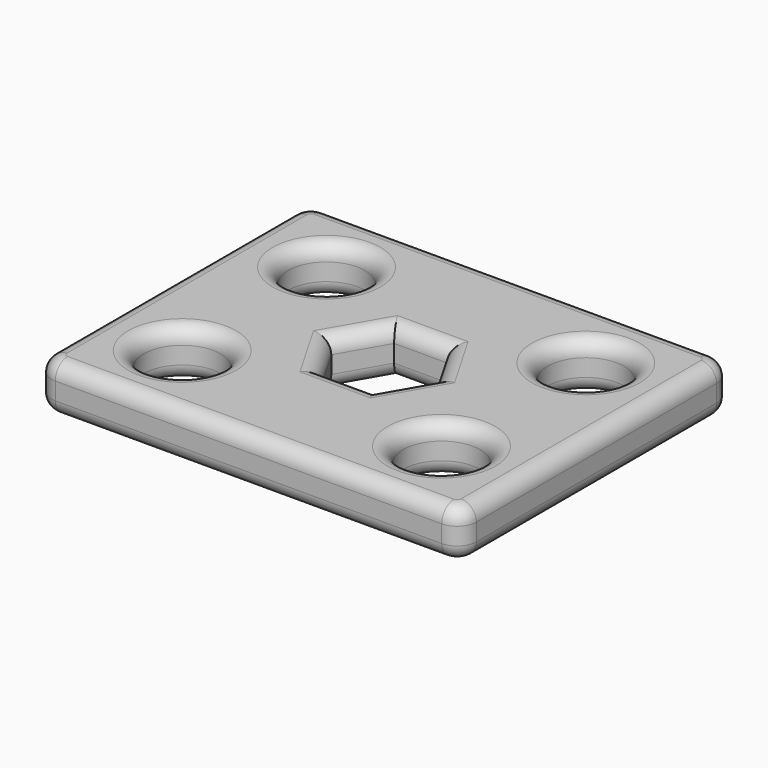
from build123d import *

# Parameters (mm, degrees)
F0_R      = 12.7
F1_DEPTH  = 25.4
F2_DEPTH  = 15.8088058233
F5_R      = 5.08
F6_R      = 13.5184511769
F7_DEPTH  = 25
F9_DEPTH  = 10.4697644711
F11_DEPTH = 23.906044662
F13_R     = 5


with BuildPart() as f1:
    # F0 (on Top) → F1 (new body)
    with BuildSketch(Plane.XY):
        with Locations((-42.7938163823, 29.7800421347)):
            Circle(F0_R)
    extrude(amount=F1_DEPTH)


with BuildPart() as f1b:
    # F0 (on Top) → F1, piece 2 (new body)
    with BuildSketch(Plane.XY):
        with Locations((-42.7938163823, -29.7800421347)):
            Circle(F0_R)
    extrude(amount=F1_DEPTH)


with BuildPart() as f1c:
    # F0 (on Top) → F1, piece 3 (new body)
    with BuildSketch(Plane.XY):
        Polygon((8.7012127042, -15.0709424911), (17.4024254084, 0), (8.7012127042, 15.0709424911), (-8.7012127042, 15.0709424911), (-17.4024254084, 0), (-8.7012127042, -15.0709424911), align=None)
    extrude(amount=F1_DEPTH)


with BuildPart() as f1d:
    # F0 (on Top) → F1, piece 4 (new body)
    with BuildSketch(Plane.XY):
        with Locations((42.7938163823, -29.7800421347)):
            Circle(F0_R)
    extrude(amount=F1_DEPTH)


with BuildPart() as f1e:
    # F0 (on Top) → F1, piece 5 (new body)
    with BuildSketch(Plane.XY):
        with Locations((42.7938163823, 29.7800421347)):
            Circle(F0_R)
    extrude(amount=F1_DEPTH)


with BuildPart() as f2:
    # F0 (on Top) → F2 (new body)
    with BuildSketch(Plane.XY):
        with BuildLine():
            Line((-63.7800129294, -55.8991283178), (63.7800129294, -55.8991283178))
            ThreePointArc((63.7800129294, -55.8991283178), (68.27014099, -54.0392563784), (70.1300129294, -49.5491283178))
            Line((70.1300129294, -49.5491283178), (70.1300129294, 49.5491283178))
            ThreePointArc((70.1300129294, 49.5491283178), (68.27014099, 54.0392563784), (63.7800129294, 55.8991283178))
            Line((63.7800129294, 55.8991283178), (-63.7800129294, 55.8991283178))
            ThreePointArc((-63.7800129294, 55.8991283178), (-68.27014099, 54.0392563784), (-70.1300129294, 49.5491283178))
            Line((-70.1300129294, 49.5491283178), (-70.1300129294, -49.5491283178))
            ThreePointArc((-70.1300129294, -49.5491283178), (-68.27014099, -54.0392563784), (-63.7800129294, -55.8991283178))
        make_face()
        with Locations((-42.7938163823, -29.7800421347)):
            Circle(F0_R, mode=Mode.SUBTRACT)
        with Locations((42.7938163823, -29.7800421347)):
            Circle(F0_R, mode=Mode.SUBTRACT)
        Polygon((8.7012127042, 15.0709424911), (17.4024254084, 0), (8.7012127042, -15.0709424911), (-8.7012127042, -15.0709424911), (-17.4024254084, 0), (-8.7012127042, 15.0709424911), align=None, mode=Mode.SUBTRACT)
        with Locations((-42.7938163823, 29.7800421347)):
            Circle(F0_R, mode=Mode.SUBTRACT)
        with Locations((42.7938163823, 29.7800421347)):
            Circle(F0_R, mode=Mode.SUBTRACT)
    extrude(amount=F2_DEPTH)

    # F3: cut F1e, F1d, F1, F1b
    add(f1e.part, mode=Mode.SUBTRACT)
    add(f1d.part, mode=Mode.SUBTRACT)
    add(f1.part, mode=Mode.SUBTRACT)
    add(f1b.part, mode=Mode.SUBTRACT)

    # F4: cut F1c
    add(f1c.part, mode=Mode.SUBTRACT)

    # F5
    f5_edges = [f2.edges().sort_by_distance(p)[0] for p in [
        (0, -55.899128, 15.808806),
        (68.270141, -54.039256, 15.808806),
        (70.130013, 0, 15.808806),
        (68.270141, 54.039256, 15.808806),
        (0, 55.899128, 15.808806),
        (-68.270141, 54.039256, 15.808806),
        (-70.130013, 0, 15.808806),
        (-68.270141, -54.039256, 15.808806),
        (-55.493816, -29.780042, 15.808806),
        (30.093816, -29.780042, 15.808806),
        (13.051819, 7.535471, 15.808806),
        (13.051819, -7.535471, 15.808806),
        (0, -15.070942, 15.808806),
        (-13.051819, -7.535471, 15.808806),
        (-13.051819, 7.535471, 15.808806),
        (0, 15.070942, 15.808806),
        (-55.493816, 29.780042, 15.808806),
        (30.093816, 29.780042, 15.808806),
    ]]
    fillet(f5_edges, radius=F5_R)

    # F13
    f13_edges = [f2.edges().sort_by_distance(p)[0] for p in [
        (0, -55.899128, 0),
        (68.270141, -54.039256, 0),
        (70.130013, 0, 0),
        (68.270141, 54.039256, 0),
        (0, 55.899128, 0),
        (-68.270141, 54.039256, 0),
        (-70.130013, 0, 0),
        (-68.270141, -54.039256, 0),
        (-55.493816, -29.780042, 0),
        (30.093816, -29.780042, 0),
        (13.051819, 7.535471, 0),
        (13.051819, -7.535471, 0),
        (0, -15.070942, 0),
        (-13.051819, -7.535471, 0),
        (-13.051819, 7.535471, 0),
        (0, 15.070942, 0),
        (-55.493816, 29.780042, 0),
        (30.093816, 29.780042, 0),
    ]]
    fillet(f13_edges, radius=F13_R)


with BuildPart() as f7:
    # F6 (on face) → F7 (new body)
    with BuildSketch(Plane.XY):
        with Locations((108.1320345402, 28.0783548951)):
            Circle(F6_R)
        with Locations((108.1320345402, 28.0783548951)):
            Circle(F6_R)
    extrude(amount=F7_DEPTH)

    # F8 (on face) → F9 (join)
    with BuildSketch(Plane.XY.offset(25)):
        Polygon((107.8246939136, 14.5633978489), (119.68266036, 21.0547115817), (119.9900009866, 34.569668628), (108.4393751668, 41.5933119414), (96.5814087204, 35.1019982085), (96.2740680938, 21.5870411623), align=None)
    extrude(amount=F9_DEPTH)

    # F10 (on face) → F11 (join)
    with BuildSketch(Plane.XY.offset(35.4697644711)):
        with BuildLine():
            ThreePointArc((119.835735074, 27.7859992983), (124.7331649122, 29.7174151802), (126.775424153, 34.569668628))
            ThreePointArc((126.775424153, 34.569668628), (121.8205937752, 41.1034958057), (114.1923039725, 38.0951014921))
            Line((114.1923039725, 38.0951014921), (119.9900009866, 34.569668628))
            Line((119.9900009866, 34.569668628), (119.835735074, 27.7859992983))
        make_face()
    extrude(amount=-F11_DEPTH)


solid = f2.part
